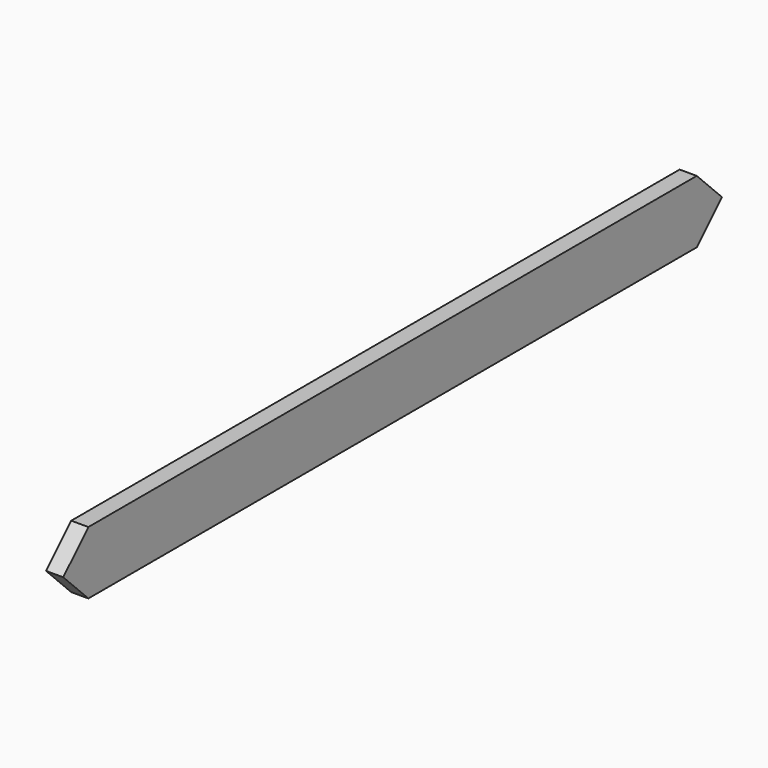
from build123d import *

# Parameters (mm, degrees)
F0_W     = 38.1
F0_H     = 139.7
F1_DEPTH = 1828.8
F3_DEPTH = 38.101


with BuildPart() as f1:
    # F0 (on Front) → F1 (new body)
    with BuildSketch(Plane.XZ):
        with Locations((19.05, 69.85)):
            Rectangle(F0_W, F0_H)
    extrude(amount=F1_DEPTH)

    # F2 (on face) → F3 (cut, through all)
    with BuildSketch(Plane.YZ.offset(38.1)):
        Polygon((-1758.95, 0), (-1828.8, 69.85), (-1828.8, 0), align=None)
        Polygon((-1828.8, 139.7), (-1828.8, 69.85), (-1758.95, 139.7), align=None)
        Polygon((0, 0), (0, 69.85), (-69.85, 0), align=None)
        Polygon((0, 69.85), (0, 139.7), (-69.85, 139.7), align=None)
    extrude(amount=-F3_DEPTH, mode=Mode.SUBTRACT)


solid = f1.part
